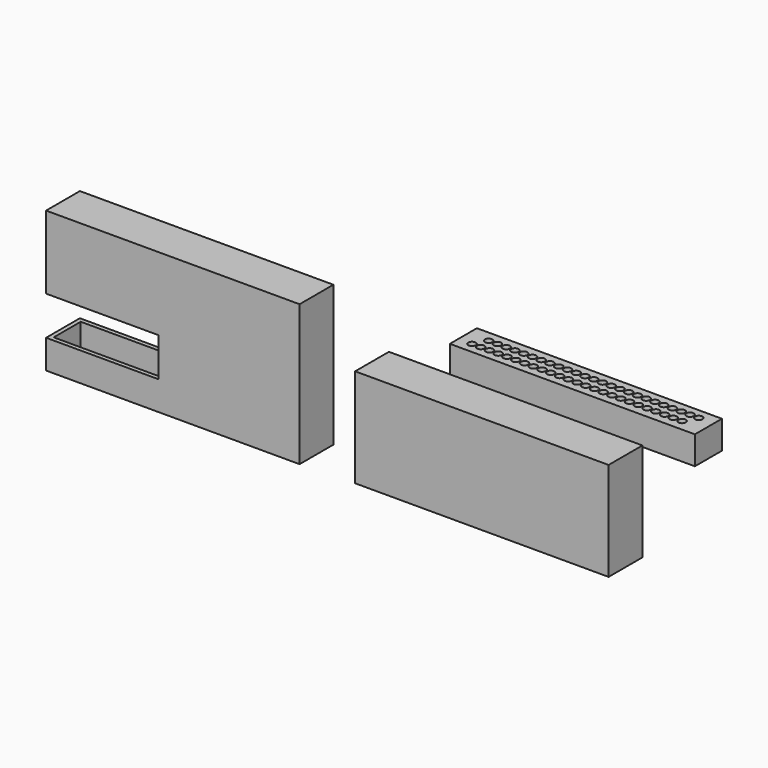
from build123d import *

# Parameters (mm, degrees)
F0_W     = 228.6
F0_H     = 127
F1_DEPTH = 38.1
F2_T     = -3.81
F3_W     = 38.1
F3_H     = 35.0046101958
F4_DEPTH = 101.6
F5_W     = 228.6
F5_H     = 88.9
F6_DEPTH = 38.1
F7_W     = 220.98
F7_H     = 30.48
F8_DEPTH = 25.4
F9_D     = 6.7564


with BuildPart() as f1:
    # F0 (on Front) → F1 (new body)
    with BuildSketch(Plane.XZ):
        with Locations((29.2300425142, 46.1664123684)):
            Rectangle(F0_W, F0_H)
    extrude(amount=F1_DEPTH)

    # F2
    f2_openings = [f1.faces().sort_by_distance(p)[0] for p in [
        (29.230043, -19.05, -17.333588),
    ]]
    offset(amount=F2_T, openings=f2_openings)

    # F3 (on face) → F4 (cut)
    with BuildSketch(Plane(origin=(-85.0699574858, 0, 0), x_dir=(0, -1, 0), z_dir=(-1, 0, 0))):
        with Locations((19.05, 26.2206075713)):
            Rectangle(F3_W, F3_H)
    extrude(amount=-F4_DEPTH, mode=Mode.SUBTRACT)


with BuildPart() as f6:
    # F5 (on Front) → F6 (new body)
    with BuildSketch(Plane.XZ):
        with Locations((307.9043053865, 28.2450151414)):
            Rectangle(F5_W, F5_H)
    extrude(amount=F6_DEPTH)


with BuildPart() as f8:
    # F7 (on face) → F8 (new body)
    with BuildSketch(Plane.XY.offset(72.6950151414)):
        with Locations((329.9828651333, 51.5611371005)):
            Rectangle(F7_W, F7_H)
    extrude(amount=-F8_DEPTH)

    # F9 (through all)
    with Locations(Plane.XY.offset(72.6950151414)):
        with Locations((231.7996226252, 45.9516770082), (239.6735922644, 45.973542983), (247.5475619036, 45.9954089579), (255.4215315428, 46.0172749327), (263.2955011821, 46.0391409075), (271.1694708213, 46.0610068823), (286.9174100997, 46.104738832), (279.0434404605, 46.0828728572), (294.7913797389, 46.1266048068), (302.6653493781, 46.1484707817), (310.5393190173, 46.1703367565), (318.4132886565, 46.1922027313), (326.2872582957, 46.2140687061), (342.0351975741, 46.2578006558), (334.1612279349, 46.235934681), (349.9091672133, 46.2796666306), (357.7831368525, 46.3015326055), (365.6571064917, 46.3233985803), (373.5310761309, 46.3452645551), (381.4050457701, 46.3671305299), (389.2790154094, 46.3889965048), (397.1529850486, 46.4108624796), (405.0269546878, 46.4327284544), (412.900924327, 46.4545944293), (420.7748939662, 46.4764604041), (426.957291123, 57.570060604), (426.957291123, 57.570060604), (419.0833214838, 57.5481946291), (411.2093518446, 57.5263286543), (403.3353822054, 57.5044626795), (395.4614125662, 57.4825967047), (387.587442927, 57.4607307298), (379.7134732878, 57.438864755), (371.8395036486, 57.4169987802), (363.9655340094, 57.3951328053), (356.0915643702, 57.3732668305), (348.217594731, 57.3514008557), (340.3436250918, 57.3295348809), (332.4696554525, 57.307668906), (324.5956858133, 57.2858029312), (316.7217161741, 57.2639369564), (308.8477465349, 57.2420709815), (300.9737768957, 57.2202050067), (285.2258376173, 57.1764730571), (293.0998072565, 57.1983390319), (277.3518679781, 57.1546070822), (269.4778983389, 57.1327411074), (261.6039286997, 57.1108751326), (245.8559894213, 57.0671431829), (253.7299590605, 57.0890091577), (237.9820197821, 57.0452772081)):
            Hole(F9_D / 2)


solid = Compound([f1.part, f6.part, f8.part])
